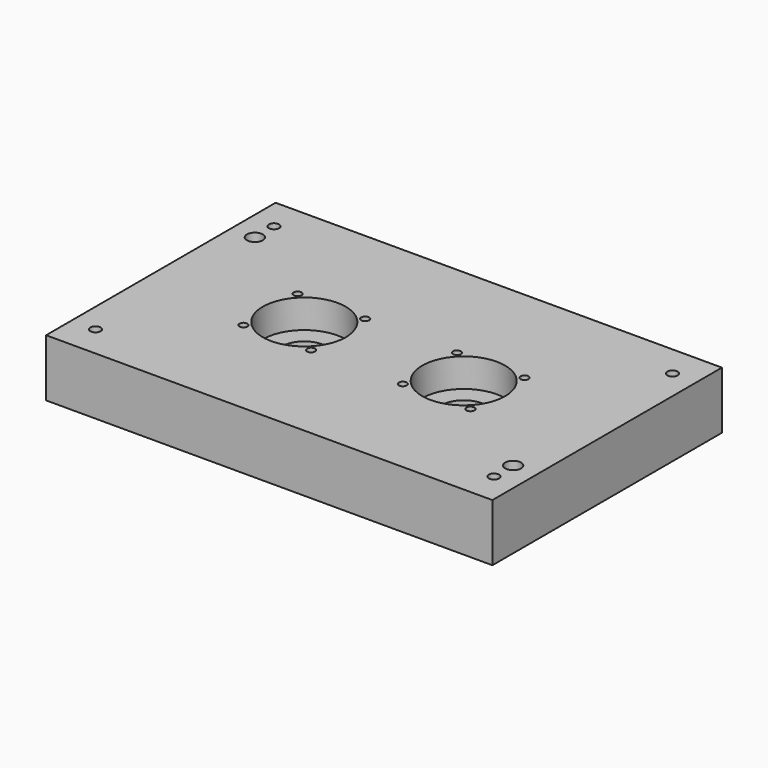
from build123d import *

# Parameters (mm, degrees)
F0_W     = 280
F0_H     = 180
F0_R     = 3.25
F0_R_2   = 2.5
F0_R_3   = 5
F0_R_4   = 26
F0_R_5   = 14
F1_DEPTH = 36
F2_DEPTH = 18
F3_DEPTH = 10
F4_D     = 5
F4_DEPTH = 10
F4_TIP   = 1.5021515476
F5_R     = 19
F5_R_2   = 14
F6_DEPTH = 12
F8_R     = 20
F9_DEPTH = 2


with BuildPart() as f1:
    # F0 (on Top) → F1 (new body)
    with BuildSketch(Plane.XY):
        Rectangle(F0_W, F0_H)
        with Locations((-125, -70)):
            Circle(F0_R, mode=Mode.SUBTRACT)
        with Locations((-71.2132034356, -21.2132034356)):
            Circle(F0_R_2, mode=Mode.SUBTRACT)
        with Locations((-28.7867965644, -21.2132034356)):
            Circle(F0_R_2, mode=Mode.SUBTRACT)
        with Locations((125, -70)):
            Circle(F0_R, mode=Mode.SUBTRACT)
        with Locations((125, -55)):
            Circle(F0_R_3, mode=Mode.SUBTRACT)
        with Locations((28.7867965644, -21.2132034356)):
            Circle(F0_R_2, mode=Mode.SUBTRACT)
        with Locations((71.2132034356, -21.2132034356)):
            Circle(F0_R_2, mode=Mode.SUBTRACT)
        with Locations((-71.2132034356, 21.2132034356)):
            Circle(F0_R_2, mode=Mode.SUBTRACT)
        with Locations((-50, 0)):
            Circle(F0_R_4, mode=Mode.SUBTRACT)
        with Locations((-28.7867965644, 21.2132034356)):
            Circle(F0_R_2, mode=Mode.SUBTRACT)
        with Locations((-125, 55)):
            Circle(F0_R_3, mode=Mode.SUBTRACT)
        with Locations((-125, 70)):
            Circle(F0_R, mode=Mode.SUBTRACT)
        with Locations((28.7867965644, 21.2132034356)):
            Circle(F0_R_2, mode=Mode.SUBTRACT)
        with Locations((50, 0)):
            Circle(F0_R_4, mode=Mode.SUBTRACT)
        with Locations((71.2132034356, 21.2132034356)):
            Circle(F0_R_2, mode=Mode.SUBTRACT)
        with Locations((125, 70)):
            Circle(F0_R, mode=Mode.SUBTRACT)
        with Locations((-50, 0)):
            Circle(F0_R_4)
        with Locations((-50, 0)):
            Circle(F0_R_5, mode=Mode.SUBTRACT)
        with Locations((50, 0)):
            Circle(F0_R_4)
        with Locations((50, 0)):
            Circle(F0_R_5, mode=Mode.SUBTRACT)
        with Locations((-125, 55)):
            Circle(F0_R_3)
        with Locations((125, -55)):
            Circle(F0_R_3)
        with Locations((-71.2132034356, 21.2132034356)):
            Circle(F0_R_2)
        with Locations((-71.2132034356, -21.2132034356)):
            Circle(F0_R_2)
        with Locations((-28.7867965644, -21.2132034356)):
            Circle(F0_R_2)
        with Locations((-28.7867965644, 21.2132034356)):
            Circle(F0_R_2)
        with Locations((28.7867965644, 21.2132034356)):
            Circle(F0_R_2)
        with Locations((28.7867965644, -21.2132034356)):
            Circle(F0_R_2)
        with Locations((71.2132034356, -21.2132034356)):
            Circle(F0_R_2)
        with Locations((71.2132034356, 21.2132034356)):
            Circle(F0_R_2)
    extrude(amount=-F1_DEPTH)

    # F0 (on Top) → F2 (cut)
    with BuildSketch(Plane.XY):
        with Locations((-50, 0)):
            Circle(F0_R_4)
        with Locations((-50, 0)):
            Circle(F0_R_5, mode=Mode.SUBTRACT)
        with Locations((50, 0)):
            Circle(F0_R_4)
        with Locations((50, 0)):
            Circle(F0_R_5, mode=Mode.SUBTRACT)
    extrude(amount=-F2_DEPTH, mode=Mode.SUBTRACT)

    # F0 (on Top) → F3 (cut)
    with BuildSketch(Plane.XY):
        with Locations((-125, 55)):
            Circle(F0_R_3)
        with Locations((125, -55)):
            Circle(F0_R_3)
    extrude(amount=-F3_DEPTH, mode=Mode.SUBTRACT)

    # F4
    with Locations(Plane.XY):
        with Locations((-71.2132034356, 21.2132034356), (-71.2132034356, -21.2132034356), (-28.7867965644, -21.2132034356), (-28.7867965644, 21.2132034356), (28.7867965644, 21.2132034356), (28.7867965644, -21.2132034356), (71.2132034356, -21.2132034356), (71.2132034356, 21.2132034356)):
            Hole(F4_D / 2, depth=F4_DEPTH)
            with Locations((0, 0, -(F4_DEPTH + F4_TIP / 2))):  # 118° drill point
                Cone(0, F4_D / 2, F4_TIP, mode=Mode.SUBTRACT)

    # F5 (on face) → F6 (cut)
    with BuildSketch(Plane(origin=(0, 0, -36), x_dir=(1, 0, 0), z_dir=(0, 0, -1))):
        with Locations((50, 0)):
            Circle(F5_R)
        with Locations((50, 0)):
            Circle(F5_R_2, mode=Mode.SUBTRACT)
        with Locations((-50, 0)):
            Circle(F5_R)
        with Locations((-50, 0)):
            Circle(F5_R_2, mode=Mode.SUBTRACT)
    extrude(amount=-F6_DEPTH, mode=Mode.SUBTRACT)

    # F8 (on offset) → F9 (cut)
    with BuildSketch(Plane.XY.offset(-32)):
        with Locations((-50, 0)):
            Circle(F8_R)
        with Locations((50, 0)):
            Circle(F8_R)
    extrude(amount=-F9_DEPTH, mode=Mode.SUBTRACT)


solid = f1.part
